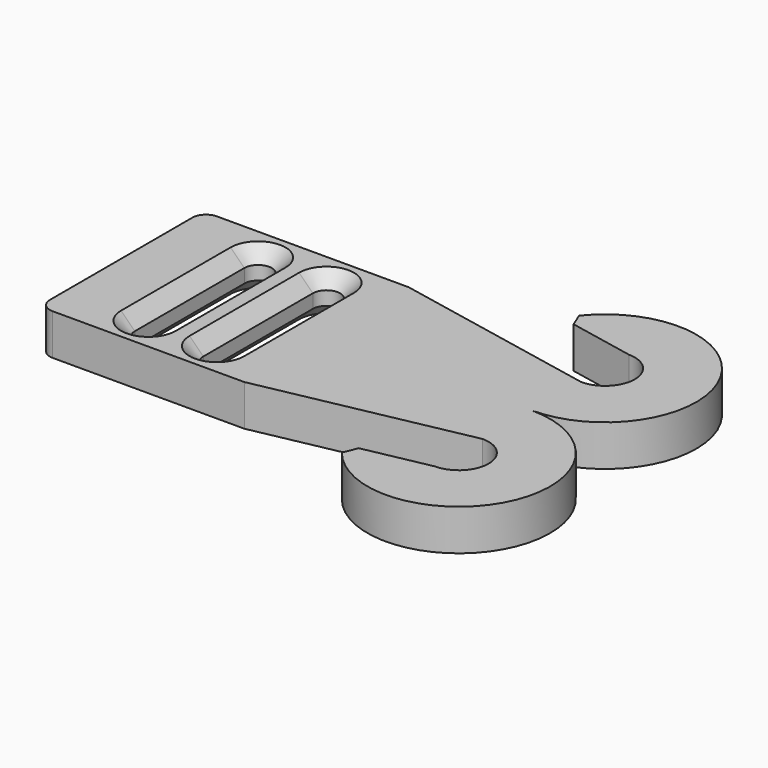
from build123d import *

# Parameters (mm, degrees)
PAD_DEPTH    = 3
POCKET_DEPTH = 5
CHAMFER_SIZE = 1
FILLET_R     = 1


with BuildPart() as part:
    # Sketch → Pad (new body)
    with BuildSketch(Plane.XY):
        with BuildLine():
            Line((0, 15), (0, 0))
            Line((0, 0), (15, 0))
            Line((15, 0), (30, 3))
            ThreePointArc((30, -1.343534), (32.171767, 0.828233), (30, 3))
            Line((30, -1.343534), (24.21767, -2.5))
            ThreePointArc((24.21767, -2.5), (35.775711, -2.511474), (30, 7.5))
            ThreePointArc((30, 7.5), (35.775711, 17.511474), (24.21767, 17.5))
            Line((24.21767, 17.5), (30, 16.343534))
            ThreePointArc((30, 12), (32.171767, 14.171767), (30, 16.343534))
            Line((15, 15), (30, 12))
            Line((0, 15), (15, 15))
        make_face()
    extrude(amount=PAD_DEPTH)

    # Sketch001 (on Face13 of Pad) → Pocket (cut)
    with BuildSketch(Plane.XY.offset(3)):
        with BuildLine():
            ThreePointArc((7, 12.5), (6, 13.5), (5, 12.5))
            Line((5, 12.5), (5, 2.5))
            ThreePointArc((5, 2.5), (6, 1.5), (7, 2.5))
            Line((7, 12.5), (7, 2.5))
        make_face()
        with BuildLine():
            ThreePointArc((12, 12.5), (11, 13.5), (10, 12.5))
            Line((10, 12.5), (10, 2.5))
            ThreePointArc((10, 2.5), (11, 1.5), (12, 2.5))
            Line((12, 12.5), (12, 2.5))
        make_face()
    extrude(amount=-POCKET_DEPTH, mode=Mode.SUBTRACT)

    # Chamfer
    chamfer_edges = [part.edges().sort_by_distance(p)[0] for p in [
        (7, 7.5, 3),
        (10, 7.5, 3),
        (7, 7.5, 0),
        (10, 7.5, 0),
        (24.21767, 17.5, 1.5),
        (24.21767, -2.5, 1.5),
    ]]
    chamfer(chamfer_edges, length=CHAMFER_SIZE)

    # Fillet
    fillet_edges = [part.edges().sort_by_distance(p)[0] for p in [
        (0, 15, 1.5),
        (0, 0, 1.5),
    ]]
    fillet(fillet_edges, radius=FILLET_R)


solid = part.part
